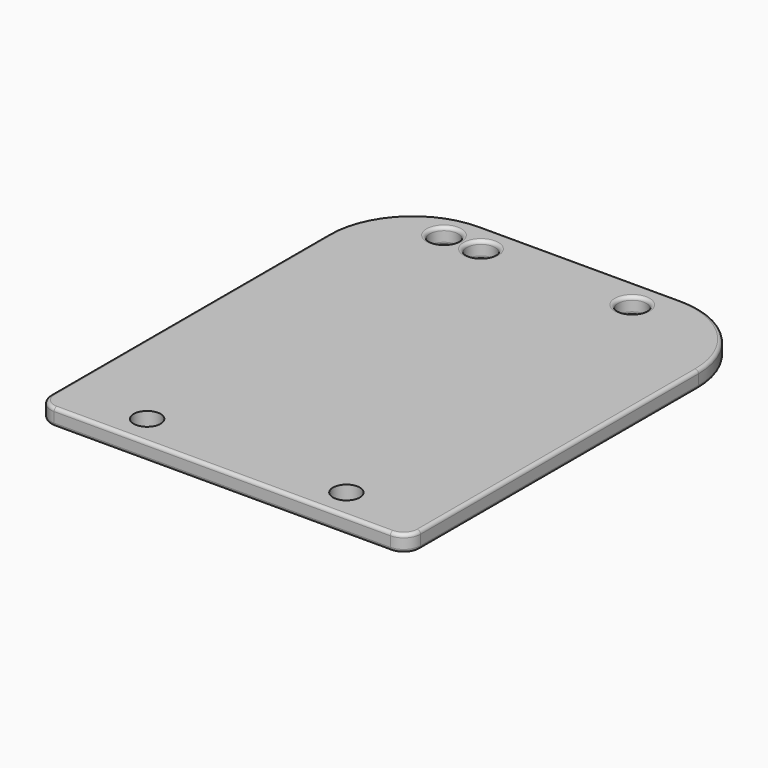
from build123d import *

# Parameters (mm, degrees)
F0_R     = 4.2
F1_DEPTH = 5
F2_R     = 5
F3_R     = 1
F4_R     = 4
F5_DEPTH = 5.001


with BuildPart() as f1:
    # F0 (on Top) → F1 (new body)
    with BuildSketch(Plane.XY):
        with BuildLine():
            Line((30, 66.675), (-30, 66.675))
            ThreePointArc((-30, 66.675), (-47.67767, 59.35267), (-55, 41.675))
            Line((-55, 41.675), (-55, -66.675))
            Line((-55, -66.675), (55, -66.675))
            Line((55, -66.675), (55, 41.675))
            ThreePointArc((55, 41.675), (47.67767, 59.35267), (30, 66.675))
        make_face()
        with Locations((-33.5, 57.675)):
            Circle(F0_R, mode=Mode.SUBTRACT)
        with Locations((-22.5, 57.675)):
            Circle(F0_R, mode=Mode.SUBTRACT)
        with Locations((22.5, 57.675)):
            Circle(F0_R, mode=Mode.SUBTRACT)
    extrude(amount=-F1_DEPTH)

    # F2
    f2_edges = [f1.edges().sort_by_distance(p)[0] for p in [
        (55, -66.675, -2.5),
        (-55, -66.675, -2.5),
    ]]
    fillet(f2_edges, radius=F2_R)

    # F3
    f3_edges = [f1.edges().sort_by_distance(p)[0] for p in [
        (-55, -10, 0),
        (-53.535534, -65.210534, 0),
        (-47.67767, 59.35267, 0),
        (0, -66.675, 0),
        (0, 66.675, 0),
        (53.535534, -65.210534, 0),
        (47.67767, 59.35267, 0),
        (55, -10, 0),
        (-37.7, 57.675, 0),
        (-26.7, 57.675, 0),
        (18.3, 57.675, 0),
        (-55, -10, -5),
        (-53.535534, -65.210534, -5),
        (-47.67767, 59.35267, -5),
        (0, -66.675, -5),
        (0, 66.675, -5),
        (53.535534, -65.210534, -5),
        (47.67767, 59.35267, -5),
        (55, -10, -5),
        (-37.7, 57.675, -5),
        (-26.7, 57.675, -5),
        (18.3, 57.675, -5),
    ]]
    fillet(f3_edges, radius=F3_R)

    # F4 (on face) → F5 (cut, through all)
    with BuildSketch(Plane.XY):
        with Locations((29.641269, -57.536172)):
            Circle(F4_R)
        with Locations((-29.641269, -57.536172)):
            Circle(F4_R)
    extrude(amount=-F5_DEPTH, mode=Mode.SUBTRACT)


solid = f1.part
